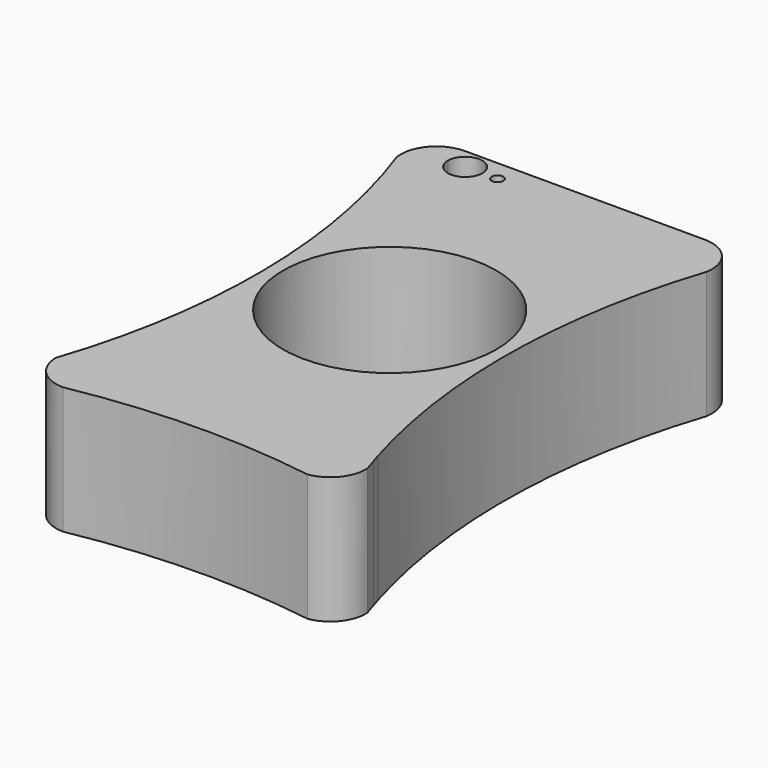
from build123d import *

# Parameters (mm, degrees)
F0_R     = 1.141075
F0_R_2   = 21
F1_DEPTH = 25


with BuildPart() as f1:
    # F0 (on Top) → F1 (new body)
    with BuildSketch(Plane.XY):
        with BuildLine():
            Line((14.498183, 29.528577), (-32.709065, 29.528577))
            ThreePointArc((-32.709065, 29.528577), (-38.066303, 27.034129), (-39.605441, 21.328577))
            Line((-39.605441, 21.328577), (21.394559, 21.328577))
            ThreePointArc((21.394559, 21.328577), (19.855421, 27.034129), (14.498183, 29.528577))
        make_face()
        with BuildLine():
            ThreePointArc((-32.745329, 25.428577), (-29.368958, 28.804948), (-25.992586, 25.428577))
            ThreePointArc((-25.992586, 25.428577), (-29.368958, 22.052206), (-32.745329, 25.428577))
        make_face(mode=Mode.SUBTRACT)
        with Locations((-23.019474, 25.428577)):
            Circle(F0_R, mode=Mode.SUBTRACT)
        with BuildLine():
            Line((21.394559, 21.328577), (-39.605441, 21.328577))
            ThreePointArc((-39.605441, 21.328577), (-32.048947, -20.975433), (-38.78329, -63.418083))
            ThreePointArc((-38.78329, -63.418083), (-36.733101, -68.367947), (-31.78329, -70.418263))
            ThreePointArc((-31.78329, -70.418263), (-8.114985, -68.003889), (15.62302, -69.592915))
            ThreePointArc((15.62302, -69.592915), (20.001522, -67.104214), (21.576059, -62.320309))
            ThreePointArc((21.576059, -62.320309), (21.170633, -61.090441), (20.777246, -59.85667))
            ThreePointArc((20.777246, -59.85667), (20.486351, -58.91648), (20.202448, -57.974154))
            ThreePointArc((20.202448, -57.974154), (14.725705, -18.2315), (21.394559, 21.328577))
        make_face()
        with Locations((-8.683509, -18.988296)):
            Circle(F0_R_2, mode=Mode.SUBTRACT)
        with BuildLine():
            Line((20.798607, -59.860425), (20.202448, -57.974154))
            ThreePointArc((20.202448, -57.974154), (20.486351, -58.91648), (20.777246, -59.85667))
            Line((20.777246, -59.85667), (20.798607, -59.860425))
        make_face()
        with BuildLine():
            Line((20.798607, -59.860425), (20.777246, -59.85667))
            ThreePointArc((20.777246, -59.85667), (21.170633, -61.090441), (21.576059, -62.320309))
            Line((21.576059, -62.320309), (20.798607, -59.860425))
        make_face()
    extrude(amount=F1_DEPTH)


solid = f1.part
